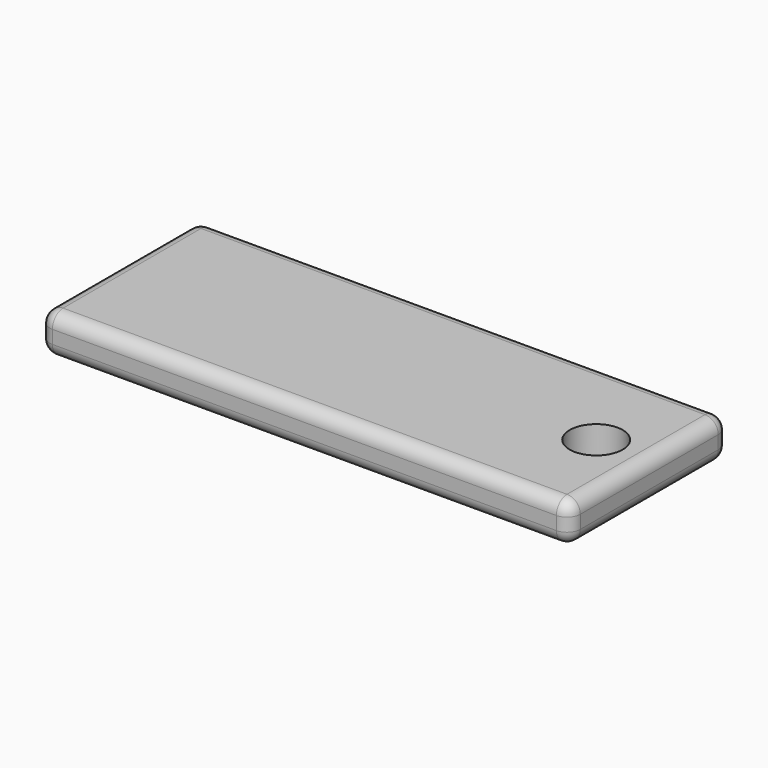
from build123d import *

# Parameters (mm, degrees)
CYLINDER_R     = 2
CYLINDER_DEPTH = 10
BOX_W          = 40
BOX_H          = 15
BOX_DEPTH      = 3
FILLET_R       = 1


with BuildPart() as cilindro:
    # Cylinder → Cylinder (new body)
    with BuildSketch(Plane(origin=(36, 7.5, -3), x_dir=(1, 0, 0), z_dir=(0, 0, 1))):
        Circle(CYLINDER_R)
    extrude(amount=CYLINDER_DEPTH)


with BuildPart() as fillet_body:
    # Box → Box (new body)
    with BuildSketch(Plane.XY):
        with Locations((20, 7.5)):
            Rectangle(BOX_W, BOX_H)
    extrude(amount=BOX_DEPTH)

    # Fillet
    fillet_edges = [fillet_body.edges().sort_by_distance(p)[0] for p in [
        (0, 0, 1.5),
        (0, 7.5, 3),
        (0, 15, 1.5),
        (0, 7.5, 0),
        (40, 0, 1.5),
        (40, 7.5, 3),
        (40, 15, 1.5),
        (40, 7.5, 0),
        (20, 0, 0),
        (20, 0, 3),
        (20, 15, 0),
        (20, 15, 3),
    ]]
    fillet(fillet_edges, radius=FILLET_R)


with BuildPart() as cut:
    # Cut base: copy of Fillet body
    add(fillet_body.part)

    # Cut: cut Cilindro
    add(cilindro.part, mode=Mode.SUBTRACT)


with BuildPart() as cut002:
    # Cut002 base: copy of Fillet body
    add(fillet_body.part)

    # Cut002: cut Cilindro
    add(cilindro.part, mode=Mode.SUBTRACT)


solid = Compound([cut.part, cut002.part])
